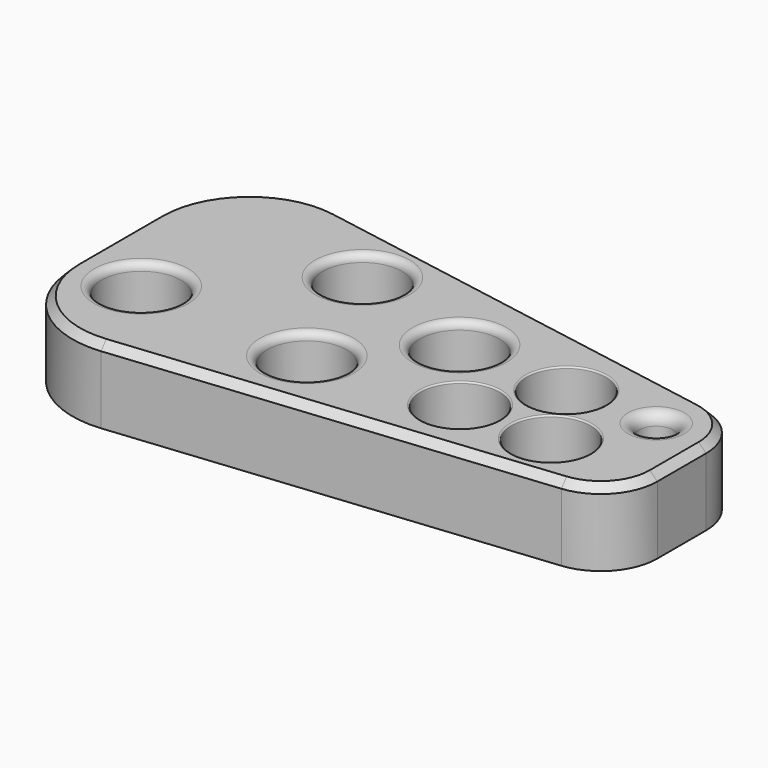
from build123d import *

# Parameters (mm, degrees)
PAD_DEPTH     = 20
SKETCH001_R   = 10.5
SKETCH001_R_2 = 4.5
POCKET_DEPTH  = 19.5
FILLET_R      = 25
FILLET001_R   = 15
CHAMFER_SIZE  = 2
FILLET002_R   = 2
FILLET003_R   = 0.4
FILLET004_R   = 3


with BuildPart() as part:
    # Sketch → Pad (new body)
    with BuildSketch(Plane.XY):
        Polygon((-91.204353, 57.520432), (62.808018, 30.533638), (62.808018, -11.810399), (-91.204353, -27.361528), align=None)
    extrude(amount=PAD_DEPTH)

    # Sketch001 → Pocket (cut)
    with BuildSketch(Plane.XY.offset(20)):
        with Locations((-73.059372, 0.428389)):
            Circle(SKETCH001_R)
        with Locations((-26.750419, -2.517045)):
            Circle(SKETCH001_R)
        with Locations((35.983011, 0)):
            Circle(SKETCH001_R)
        with Locations((-39.729362, 32.131866)):
            Circle(SKETCH001_R)
        with Locations((-5.064848, 21.01455)):
            Circle(SKETCH001_R)
        with Locations((11.887694, 0)):
            Circle(SKETCH001_R)
        with Locations((48.706013, 19.016449)):
            Circle(SKETCH001_R_2)
        with Locations((24.869144, 18.986362)):
            Circle(SKETCH001_R)
    extrude(amount=-POCKET_DEPTH, mode=Mode.SUBTRACT)

    # Fillet
    fillet_edges = [part.edges().sort_by_distance(p)[0] for p in [
        (-91.204353, -27.361528, 10),
        (-91.204353, 57.520432, 10),
    ]]
    fillet(fillet_edges, radius=FILLET_R)

    # Fillet001
    fillet001_edges = [part.edges().sort_by_distance(p)[0] for p in [
        (62.808018, -11.810399, 10),
        (62.808018, 30.533638, 10),
    ]]
    fillet(fillet001_edges, radius=FILLET001_R)

    # Chamfer
    chamfer_edges = [part.edges().sort_by_distance(p)[0] for p in [
        (-7.188919, -18.878217, 20),
    ]]
    chamfer(chamfer_edges, length=CHAMFER_SIZE)

    # Fillet002
    fillet002_edges = [part.edges().sort_by_distance(p)[0] for p in [
        (-83.559372, 0.428389, 20),
        (-50.229362, 32.131866, 20),
        (-37.250419, -2.517045, 20),
        (-15.564848, 21.01455, 20),
    ]]
    fillet(fillet002_edges, radius=FILLET002_R)

    # Fillet003
    fillet003_edges = [part.edges().sort_by_distance(p)[0] for p in [
        (1.387694, 0, 20),
        (25.483011, 0, 20),
        (14.369144, 18.986362, 20),
    ]]
    fillet(fillet003_edges, radius=FILLET003_R)

    # Fillet004
    fillet004_edges = [part.edges().sort_by_distance(p)[0] for p in [
        (44.206013, 19.016449, 20),
    ]]
    fillet(fillet004_edges, radius=FILLET004_R)


solid = part.part
